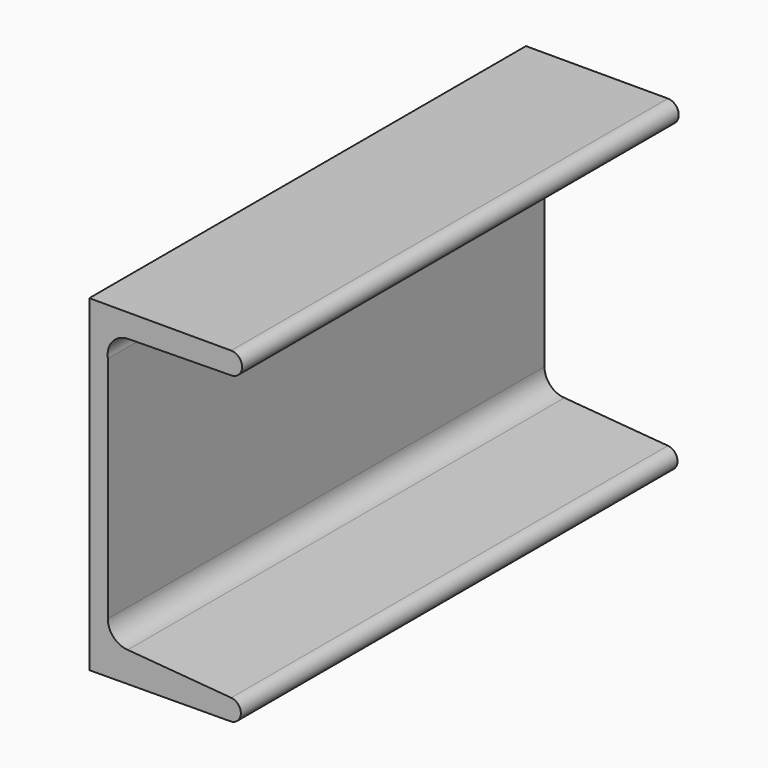
from build123d import *

# Parameters (mm, degrees)
F1_DEPTH = 63.5


with BuildPart() as f1:
    # F0 (on Front) → F1 (new body, symmetric)
    with BuildSketch(Plane.XZ):
        with BuildLine():
            Line((0, 76.2), (0, 0))
            Line((0, 0), (33.02, 0.204413))
            ThreePointArc((33.02, 0.204413), (35.270127, 2.646143), (33.020701, 5.088518))
            Line((33.020701, 5.088518), (8.960143, 7.06736))
            ThreePointArc((8.960143, 7.06736), (5.66574, 8.558586), (4.318, 11.914245))
            Line((4.318, 11.914245), (4.318, 65.220829))
            ThreePointArc((4.318, 65.220829), (5.415033, 69.086013), (9.049583, 70.798665))
            Line((9.049583, 70.798665), (33.010507, 71.12))
            ThreePointArc((33.010507, 71.12), (35.550503, 73.655254), (33.02, 76.199982))
            Line((33.02, 76.199982), (0, 76.2))
        make_face()
    extrude(amount=F1_DEPTH, both=True)


solid = f1.part
